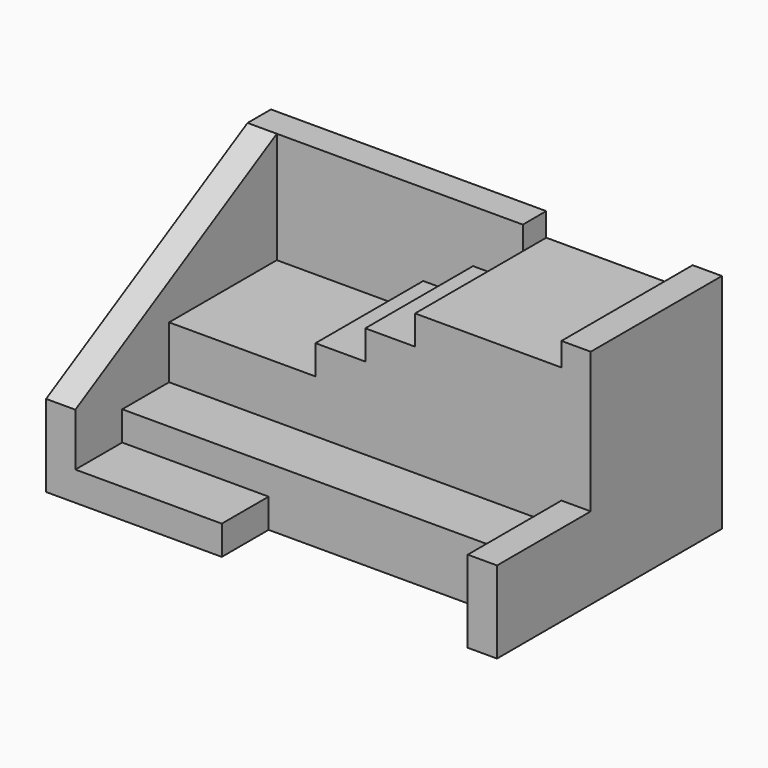
from build123d import *

# Parameters (mm, degrees)
F1_DEPTH  = 38
F3_DEPTH  = 25
F4_DEPTH  = 38
F0_W      = 5
F0_H      = 28
F5_DEPTH  = 38
F6_DEPTH  = 34
F7_DEPTH  = 14
F0_W_2    = 8.5
F0_H_2    = 23
F8_DEPTH  = 29
F9_DEPTH  = 24
F0_W_3    = 25
F10_DEPTH = 19
F11_DEPTH = 10
F0_H_3    = 10
F12_DEPTH = 5


with BuildPart() as f1:
    # F0 (on Top) → F1 (new body)
    with BuildSketch(Plane.XY):
        Polygon((-33.5, -24), (-33.5, -14), (-33.5, -4), (-33.5, 19), (-38.5, 19), (-38.5, -24), align=None)
    extrude(amount=F1_DEPTH)

    # F2 (on face) → F3 (cut)
    with BuildSketch(Plane.YZ.offset(-33.5)):
        Polygon((-24, 38), (-24, 14), (19, 38), align=None)
    extrude(amount=-F3_DEPTH, mode=Mode.SUBTRACT)

    # F0 (on Top) → F4 (join)
    with BuildSketch(Plane.XY):
        Polygon((8.5, 19), (8.5, 24), (-38.5, 24), (-38.5, 19), (-33.5, 19), (-8.5, 19), (0, 19), align=None)
    extrude(amount=F4_DEPTH)



with BuildPart() as f5:
    # F0 (on Top) → F5 (new body)
    with BuildSketch(Plane.XY):
        with Locations((36, 10)):
            Rectangle(F0_W, F0_H)
    extrude(amount=F5_DEPTH)


with BuildPart() as f1_1:
    add(f1.part)

    add(f5.part)  # F6 merges F5
    # F0 (on Top) → F6 (join)
    with BuildSketch(Plane.XY):
        Polygon((8.5, -4), (33.5, -4), (33.5, 24), (8.5, 24), (8.5, 19), align=None)
    extrude(amount=F6_DEPTH)

    # F0 (on Top) → F7 (join)
    with BuildSketch(Plane.XY):
        Polygon((33.5, -24), (38.5, -24), (38.5, -4), (33.5, -4), (33.5, -14), align=None)
    extrude(amount=F7_DEPTH)

    # F0 (on Top) → F8 (join)
    with BuildSketch(Plane.XY):
        with Locations((4.25, 7.5)):
            Rectangle(F0_W_2, F0_H_2)
    extrude(amount=F8_DEPTH)

    # F0 (on Top) → F9 (join)
    with BuildSketch(Plane.XY):
        with Locations((-4.25, 7.5)):
            Rectangle(F0_W_2, F0_H_2)
    extrude(amount=F9_DEPTH)

    # F0 (on Top) → F10 (join)
    with BuildSketch(Plane.XY):
        with Locations((-21, 7.5)):
            Rectangle(F0_W_3, F0_H_2)
    extrude(amount=F10_DEPTH)

    # F0 (on Top) → F11 (join)
    with BuildSketch(Plane.XY):
        Polygon((-8.5, -14), (33.5, -14), (33.5, -4), (8.5, -4), (0, -4), (-8.5, -4), (-33.5, -4), (-33.5, -14), align=None)
    extrude(amount=F11_DEPTH)

    # F0 (on Top) → F12 (join)
    with BuildSketch(Plane.XY):
        with Locations((-21, -19)):
            Rectangle(F0_W_3, F0_H_3)
    extrude(amount=F12_DEPTH)


solid = f1_1.part
